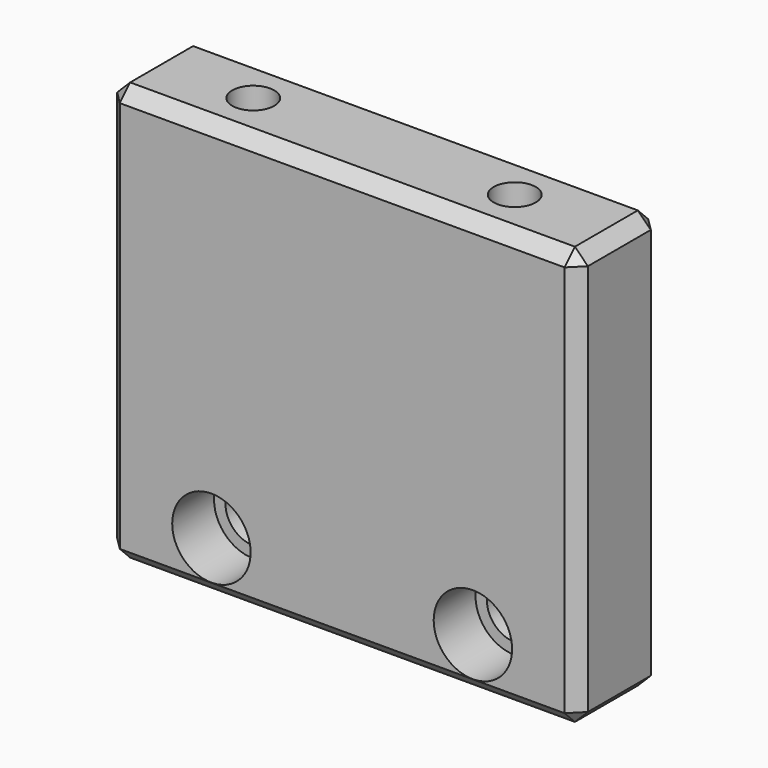
from build123d import *

# Parameters (mm, degrees)
F0_W           = 57.15
F0_H           = 50.8
F1_DEPTH       = 12.7
F2_D           = 6.7564
F2_CBORE_D     = 9.525
F2_CBORE_DEPTH = 6.35
F4_D           = 5.1054
F4_DEPTH       = 19.05
F4_TIP         = 1.5338169022
F5_SIZE        = 1.5748
F6_ANGLE       = 180


with BuildPart() as f1:
    # F0 (on Front) → F1 (new body)
    with BuildSketch(Plane.XZ):
        Rectangle(F0_W, F0_H)
    extrude(amount=-F1_DEPTH)

    # F2 (through all)
    with Locations(Plane.XZ):
        with Locations((-15.875, 19.05), (15.875, 19.05)):
            CounterBoreHole(F2_D / 2, F2_CBORE_D / 2, F2_CBORE_DEPTH)

    # F4
    with Locations(Plane(origin=(0, 0, -25.4), x_dir=(1, 0, 0), z_dir=(0, 0, -1))):
        with Locations((15.875, -6.35), (-15.875, -6.35)):
            Hole(F4_D / 2, depth=F4_DEPTH)
            with Locations((0, 0, -(F4_DEPTH + F4_TIP / 2))):  # 118° drill point
                Cone(0, F4_D / 2, F4_TIP, mode=Mode.SUBTRACT)

    # F5
    f5_edges = [f1.edges().sort_by_distance(p)[0] for p in [
        (28.575, 12.7, 0),
        (28.575, 0, 0),
        (-28.575, 0, 0),
        (-28.575, 12.7, 0),
        (0, 0, -25.4),
        (-28.575, 6.35, -25.4),
        (0, 12.7, -25.4),
        (28.575, 6.35, -25.4),
        (28.575, 6.35, 25.4),
        (-28.575, 6.35, 25.4),
        (0, 0, 25.4),
        (0, 12.7, 25.4),
    ]]
    chamfer(f5_edges, length=F5_SIZE)


with BuildPart() as f1_1:
    # F6: moved
    add(f1.part.rotate(Axis((28.575, 6.35, 23.8252), (0, 1, 0)), F6_ANGLE))


solid = f1_1.part
